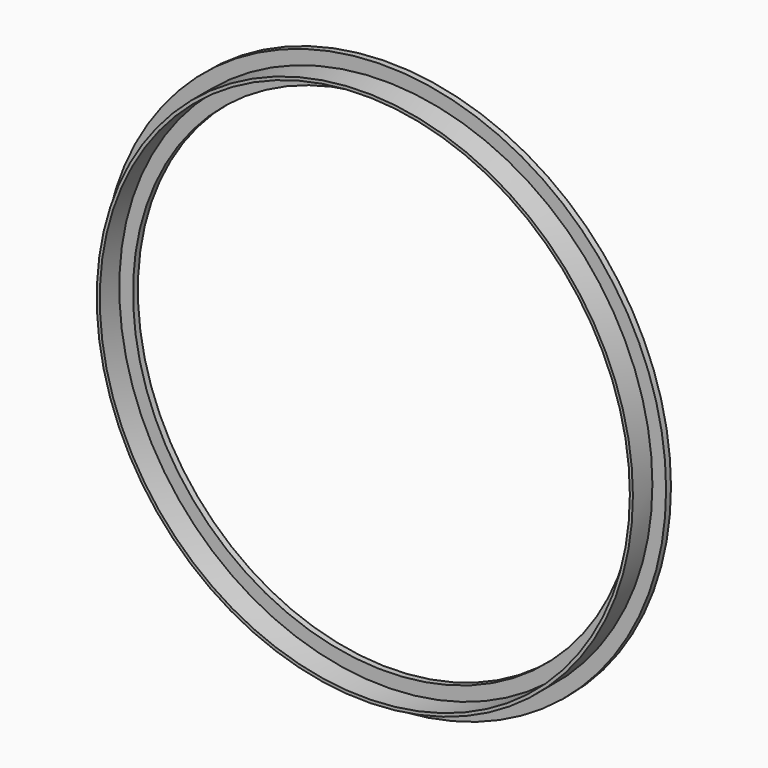
from build123d import *

# Parameters (mm, degrees)
F0_R     = 92.5
F0_R_2   = 82.5
F1_DEPTH = 2
F2_R     = 88
F2_R_2   = 87
F3_DEPTH = 10


with BuildPart() as f1:
    # F0 (on Front) → F1 (new body)
    with BuildSketch(Plane.XZ):
        Circle(F0_R)
        Circle(F0_R_2, mode=Mode.SUBTRACT)
    extrude(amount=F1_DEPTH)

    # F2 (on Front) → F3 (join)
    with BuildSketch(Plane.XZ):
        Circle(F2_R)
        Circle(F2_R_2, mode=Mode.SUBTRACT)
    extrude(amount=F3_DEPTH)


solid = f1.part
